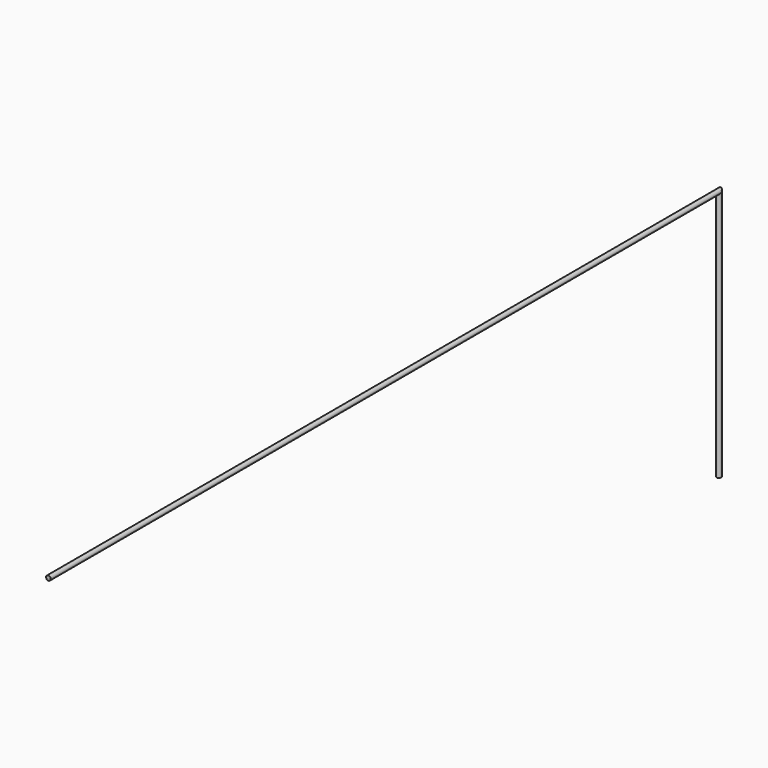
from build123d import *

# Parameters (mm, degrees)
F0_R = 25.4


with BuildPart() as f2:
    # F2: sweep along a path in F1
    with BuildLine(Plane.YZ) as f2_path:
        Line((0, 0), (9144, 0))
        Line((9144, 0), (9144, -2743.2))
    # F0 (on Front) → F2 (sweep)
    with BuildSketch(Plane.XZ):
        Circle(F0_R)
    sweep(path=f2_path.line, transition=Transition.RIGHT)


solid = f2.part
